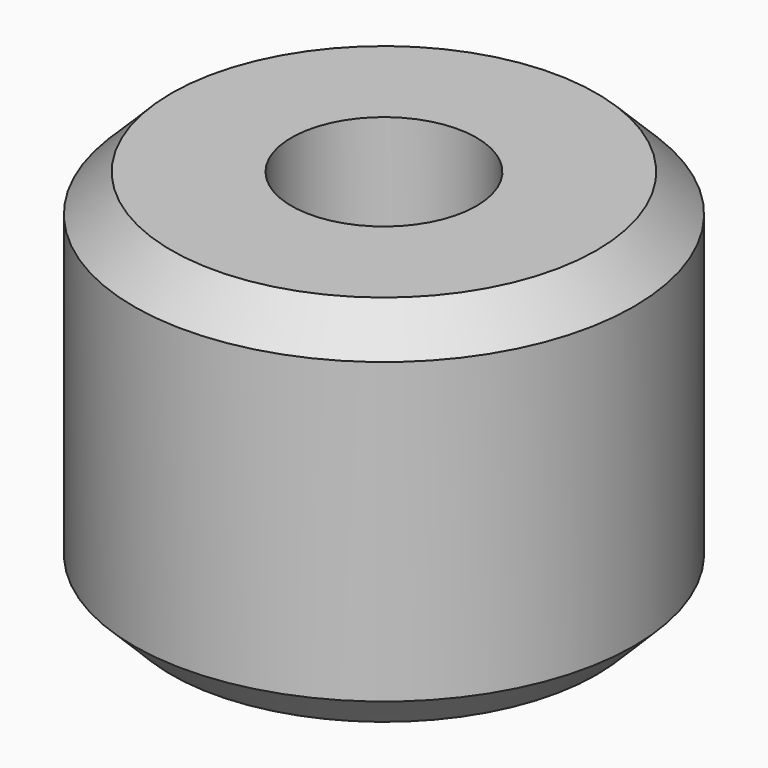
from build123d import *

# Parameters (mm, degrees)
F0_R     = 33.993952
F1_DEPTH = 50.8
F2_SIZE  = 5.08
F3_R     = 12.582727
F4_DEPTH = 76.2


with BuildPart() as f1:
    # F0 (on Top) → F1 (new body)
    with BuildSketch(Plane.XY):
        Circle(F0_R)
    extrude(amount=F1_DEPTH)

    # F2
    f2_edges = [f1.edges().sort_by_distance(p)[0] for p in [
        (-33.993952, 0, 50.8),
        (-33.993952, 0, 0),
    ]]
    chamfer(f2_edges, length=F2_SIZE)

    # F3 (on face) → F4 (cut)
    with BuildSketch(Plane.XY.offset(50.8)):
        Circle(F3_R)
    extrude(amount=-F4_DEPTH, mode=Mode.SUBTRACT)


solid = f1.part
